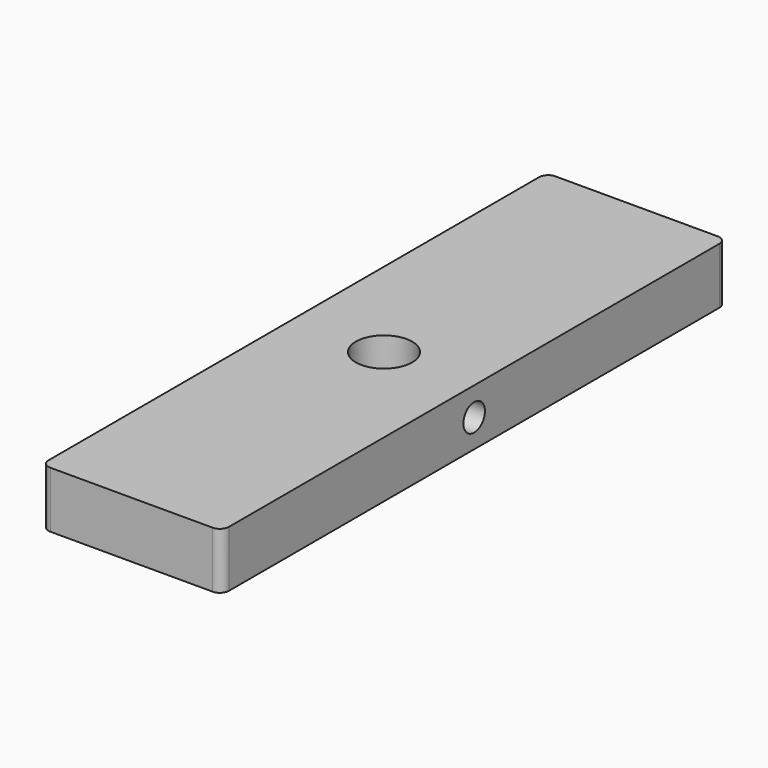
from build123d import *

# Parameters (mm, degrees)
F0_W     = 25.4
F0_H     = 88.9
F1_DEPTH = 7.9375
F2_R     = 3.96875
F3_DEPTH = 7.9375
F5_D     = 3.7973
F5_DEPTH = 12.7
F5_TIP   = 1.1408240143
F6_R     = 1.27


with BuildPart() as f1:
    # F0 (on Top) → F1 (new body)
    with BuildSketch(Plane.XY):
        with Locations((12.7, 44.45)):
            Rectangle(F0_W, F0_H)
    extrude(amount=F1_DEPTH)

    # F2 (on face) → F3 (cut, through all)
    with BuildSketch(Plane.XY.offset(7.9375)):
        with Locations((12.7, 44.45)):
            Circle(F2_R)
    extrude(amount=-F3_DEPTH, mode=Mode.SUBTRACT)

    # F5
    with Locations(Plane.YZ.offset(25.4)):
        with Locations((44.45, 3.96875)):
            Hole(F5_D / 2, depth=F5_DEPTH)
            with Locations((0, 0, -(F5_DEPTH + F5_TIP / 2))):  # 118° drill point
                Cone(0, F5_D / 2, F5_TIP, mode=Mode.SUBTRACT)

    # F6
    f6_edges = [f1.edges().sort_by_distance(p)[0] for p in [
        (25.4, 88.9, 3.96875),
        (0, 88.9, 3.96875),
        (25.4, 0, 3.96875),
        (0, 0, 3.96875),
    ]]
    fillet(f6_edges, radius=F6_R)


solid = f1.part
